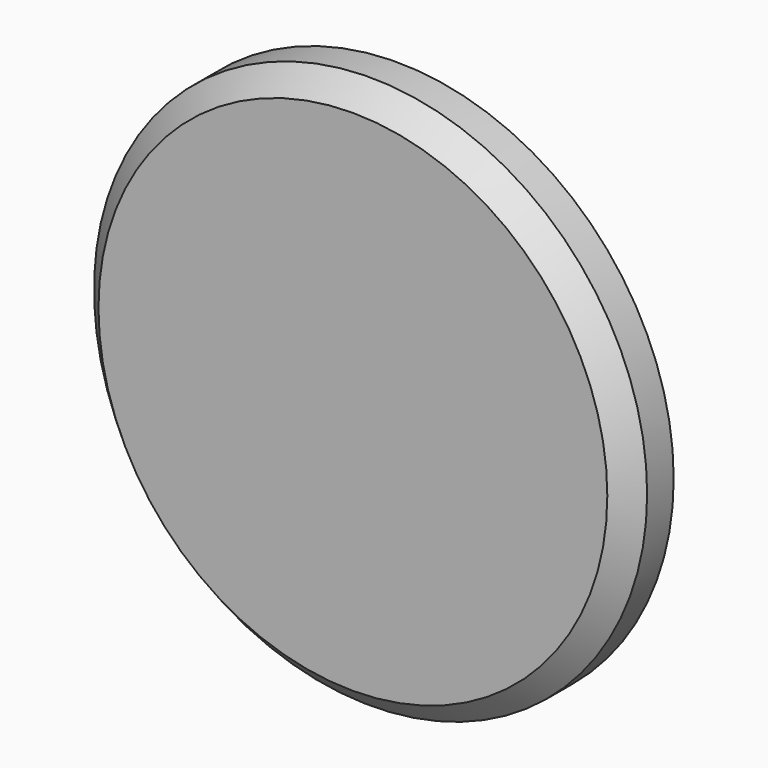
from build123d import *

# Parameters (mm, degrees)
F0_R    = 25
F3_SIZE = 2


with BuildPart() as f2:
    # F2: sweep along a path in F1
    with BuildLine(Plane.YZ) as f2_path:
        Line((0, 0), (-5, 0))
    # F0 (on Front) → F2 (sweep)
    with BuildSketch(Plane.XZ):
        Circle(F0_R)
    sweep(path=f2_path.line)

    # F3
    f3_edges = [f2.edges().sort_by_distance(p)[0] for p in [
        (-25, -5, 0),
    ]]
    chamfer(f3_edges, length=F3_SIZE)


solid = f2.part
